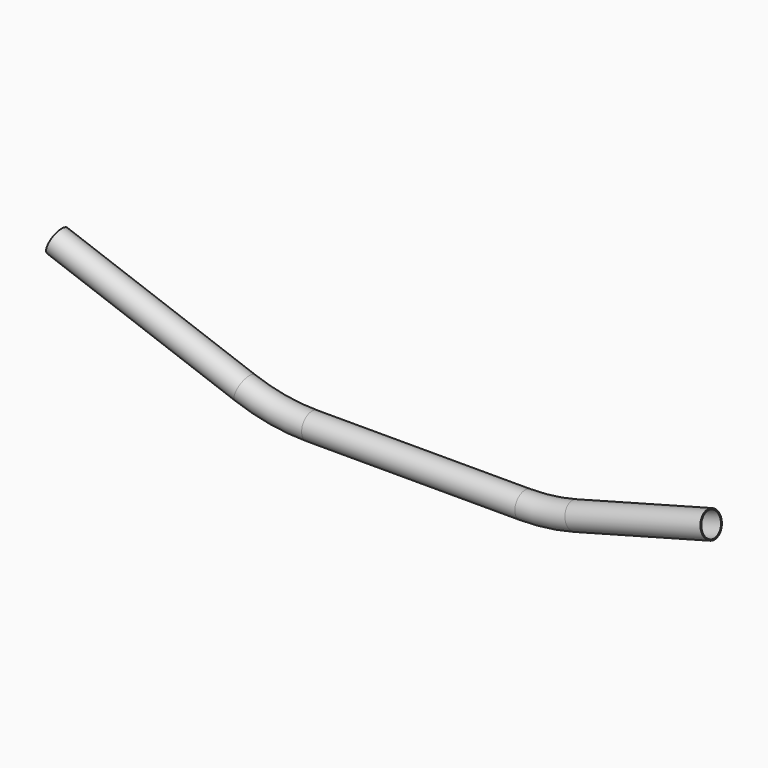
from build123d import *

# Parameters (mm, degrees)
F2_R = 33.3375
F4_T = -2.86990282


with BuildPart() as f3:
    # F3: sweep along a path in F0
    with BuildLine(Plane.XZ) as f3_path:
        Line((-572.8366216311, 208.4954793713), (-84.1721266095, 30.6361486408))
        ThreePointArc((-84.1721266095, 30.6361486408), (1.3608319451, 7.7176614698), (89.5741061999, 0))
        Line((89.5741061999, 0), (644.3205312256, 0))
        ThreePointArc((644.3205312256, 0), (710.6278368734, 4.3460104221), (775.8006061377, 17.3096802452))
        Line((775.8006061377, 17.3096802452), (1128.2867717916, 111.7580636753))
    # F2 (on line) → F3 (sweep)
    with BuildSketch(Plane(origin=(-572.8366216311, 0, 208.4954793713), x_dir=(0, -1, 0), z_dir=(-0.9396926208, 0, 0.3420201433))):
        Circle(F2_R)
    sweep(path=f3_path.line)

    # F4
    f4_openings = [f3.faces().sort_by_distance(p)[0] for p in [
        (-572.836622, 0, 208.495479),
        (1128.286772, 0, 111.758064),
    ]]
    offset(amount=F4_T, openings=f4_openings)


solid = f3.part
